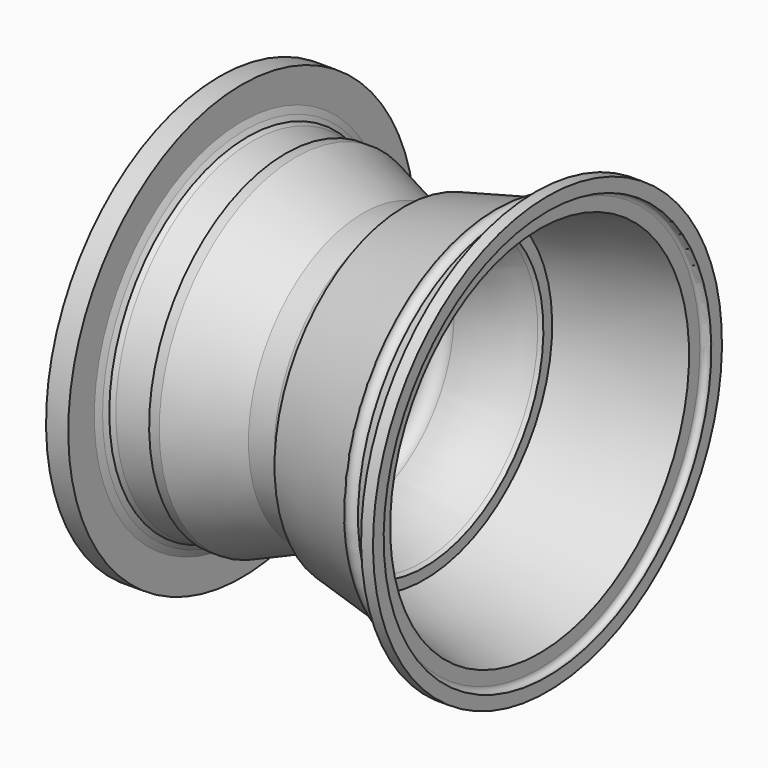
from build123d import *


with BuildPart() as f1:
    # F0 (on Front) → F1 (revolve)
    with BuildSketch(Plane.XZ):
        with BuildLine():
            Line((-13.001788, 53.520098), (0, 0))
            Line((0, 0), (76.2, 0))
            Line((76.2, 0), (76.2, 139.7))
            ThreePointArc((76.2, 139.7), (64.807114, 159.809608), (41.701375, 160.374385))
            ThreePointArc((41.701375, 160.374385), (22.657685, 178.29948), (0, 191.360891))
            ThreePointArc((0, 191.360891), (-22.100437, 187.955852), (-29.09244, 209.195802))
            Line((-29.09244, 209.195802), (-29.09244, 478.949666))
            ThreePointArc((-29.09244, 478.949666), (-8.124559, 524.104896), (39.902304, 537.222339))
            ThreePointArc((39.902304, 537.222339), (191.713955, 552.892008), (329.546337, 618.424827))
            Line((329.546337, 618.424827), (344.753396, 629.150954))
            Line((344.753396, 629.150954), (344.753396, 675.713181))
            Line((344.753396, 675.713181), (832.048297, 792.317331))
            Line((832.048297, 792.317331), (832.048297, 849.559426))
            ThreePointArc((832.048297, 849.559426), (843.247767, 868.708812), (865.42857, 868.33583))
            Line((865.42857, 868.33583), (865.42857, 924.816523))
            Line((865.42857, 924.816523), (814.806972, 924.816523))
            ThreePointArc((814.806972, 924.816523), (800.372762, 863.263215), (761.516154, 813.390175))
            Line((761.516154, 813.390175), (701.389954, 799.002657))
            ThreePointArc((701.389954, 799.002657), (661.363276, 813.153704), (635.529373, 779.463995))
            Line((635.529373, 779.463995), (259.661203, 689.523))
            ThreePointArc((259.661203, 689.523), (242.066576, 635.252867), (192.234555, 607.475397))
            Line((192.234555, 607.475397), (83.221768, 607.475397))
            Line((83.221768, 607.475397), (-201.819803, 723.532114))
            Line((-201.819803, 723.532114), (-244.817685, 723.532114))
            Line((-244.817685, 723.532114), (-244.817685, 689.748082))
            Line((-244.817685, 689.748082), (-386.096414, 723.532114))
            Line((-386.096414, 723.532114), (-405.970335, 733.321607))
            Line((-405.970335, 733.321607), (-418.141782, 753.607333))
            Line((-418.141782, 753.607333), (-430.461668, 782.007396))
            Line((-430.461668, 782.007396), (-430.461668, 800.314043))
            Line((-430.461668, 800.314043), (-430.461668, 920.093868))
            Line((-430.461668, 920.093868), (-524.700532, 920.093868))
            Line((-524.700532, 920.093868), (-524.700532, 846.383188))
            Line((-524.700532, 846.383188), (-481.702635, 846.383188))
            Line((-481.702635, 846.383188), (-481.702635, 683.605525))
            Line((-481.702635, 683.605525), (-193.002621, 606.823597))
            Line((-193.002621, 606.823597), (-125.434542, 551.540647))
            Line((-125.434542, 551.540647), (-125.434542, 487.043802))
            Line((-125.434542, 487.043802), (-239.071781, 462.473605))
            ThreePointArc((-239.071781, 462.473605), (-293.841438, 409.125422), (-269.784549, 336.551253))
            Line((-269.784549, 336.551253), (-269.784549, 161.488477))
            Line((-269.784549, 161.488477), (-46.200351, 123.467183))
            ThreePointArc((-46.200351, 123.467183), (-11.410961, 97.127102), (-13.001788, 53.520098))
        make_face()
    revolve(axis=Axis((38.1, 0, 0), (1, 0, 0)))


solid = f1.part
